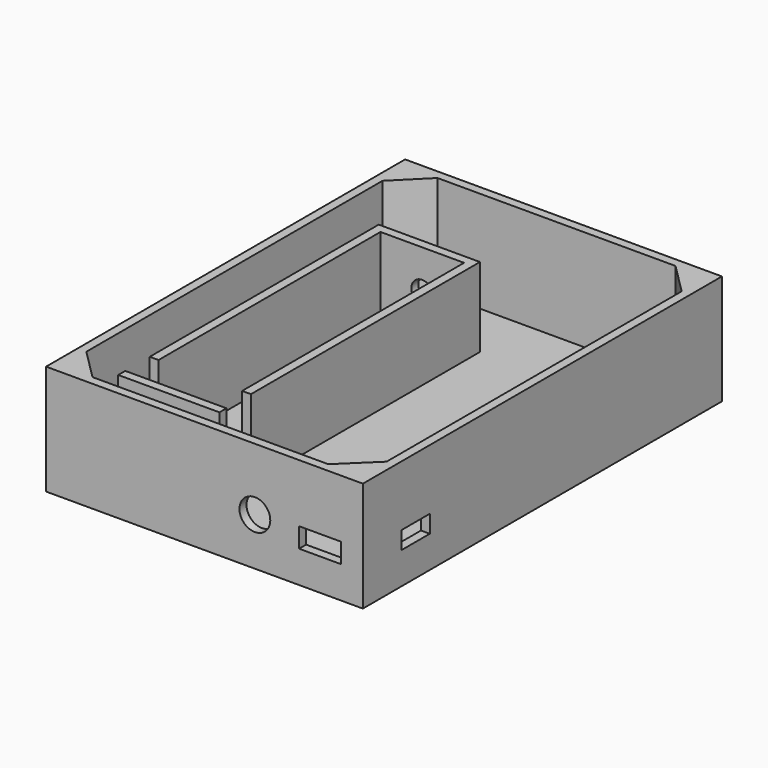
from build123d import *

# Parameters (mm, degrees)
F0_W      = 72
F0_H      = 102
F1_DEPTH  = 25
F3_DEPTH  = 23
F4_W      = 9.5
F4_H      = 4.5
F4_R      = 3.5
F5_DEPTH  = 3
F6_DEPTH  = 3
F7_W      = 8
F7_H      = 4
F8_DEPTH  = 3
F10_W     = 23
F10_H     = 74
F10_W_2   = 19
F10_H_2   = 70
F11_DEPTH = 18
F12_W     = 2
F12_H     = 6.944833
F13_DEPTH = 16
F14_R     = 2.5
F15_DEPTH = 75
F17_DEPTH = 6
F18_SIZE  = 2.5


with BuildPart() as f1:
    # F0 (on Top) → F1 (new body)
    with BuildSketch(Plane.XY):
        Rectangle(F0_W, F0_H)
    extrude(amount=F1_DEPTH)

    # F2 (on face) → F3 (cut)
    with BuildSketch(Plane.XY.offset(25)):
        Polygon((34, 42.058192), (27.058192, 49), (-27.058192, 49), (-34, 42.058192), (-34, -42.058192), (-27.058192, -49), (34, -49), align=None)
    extrude(amount=-F3_DEPTH, mode=Mode.SUBTRACT)

    # F4 (on face) → F5 (cut)
    with BuildSketch(Plane.XZ.offset(51)):
        with Locations((26.25, 9.523708)):
            Rectangle(F4_W, F4_H)
        with Locations((11.4543, 10.823708)):
            Circle(F4_R)
    extrude(amount=-F5_DEPTH, mode=Mode.SUBTRACT)

    # F4 (on face) → F6 (cut)
    with BuildSketch(Plane.XZ.offset(51)):
        with Locations((26.25, 9.523708)):
            Rectangle(F4_W, F4_H)
        with Locations((11.4543, 10.823708)):
            Circle(F4_R)
    extrude(amount=-F6_DEPTH, mode=Mode.SUBTRACT)

    # F7 (on face) → F8 (cut)
    with BuildSketch(Plane.YZ.offset(36)):
        with Locations((-36, 9.25)):
            Rectangle(F7_W, F7_H)
    extrude(amount=-F8_DEPTH, mode=Mode.SUBTRACT)

    # F10 (on face) → F11 (join)
    with BuildSketch(Plane.XY.offset(2)):
        with Locations((-18.5, -1)):
            Rectangle(F10_W, F10_H)
        with Locations((-18.5, -1)):
            Rectangle(F10_W_2, F10_H_2, mode=Mode.SUBTRACT)
    extrude(amount=F11_DEPTH)

    # F12 (on face) → F13 (cut)
    with BuildSketch(Plane.XY.offset(20)):
        with Locations((-29, -32.527583)):
            Rectangle(F12_W, F12_H)
        with Locations((-8, -32.527583)):
            Rectangle(F12_W, F12_H)
    extrude(amount=-F13_DEPTH, mode=Mode.SUBTRACT)

    # F14 (on face) → F15 (cut)
    with BuildSketch(Plane.XZ.offset(38)):
        with Locations((-18.5, 11)):
            Circle(F14_R)
    extrude(amount=-F15_DEPTH, mode=Mode.SUBTRACT)

    # F16 (on face) → F17 (join)
    with BuildSketch(Plane.XY.offset(25)):
        Polygon((34, -41.767824), (26.534403, -49), (34, -49), align=None)
    extrude(amount=-F17_DEPTH)

    # F18
    f18_edges = [f1.edges().sort_by_distance(p)[0] for p in [
        (30.267201, -45.383912, 19),
    ]]
    chamfer(f18_edges, length=F18_SIZE)


solid = f1.part
